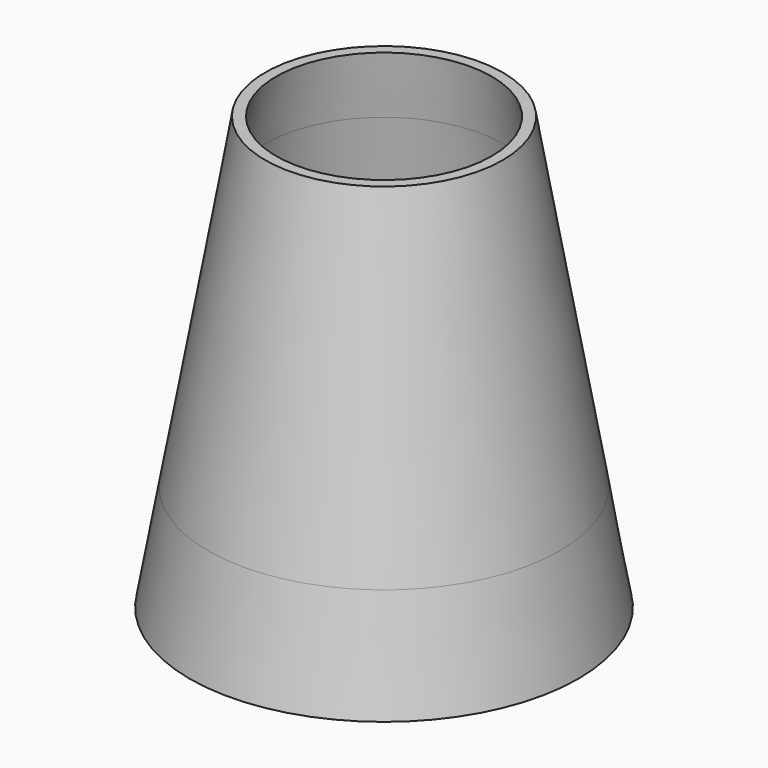
from build123d import *


with BuildPart() as f1:
    # F0 (on Front) → F1 (revolve)
    with BuildSketch(Plane.XZ):
        Polygon((15.2590650846, 9.8613593727), (16.9848029748, 0), (18, 0), (16.2742621098, 9.8613593727), align=None)
        Polygon((11, 40), (11, 34.1988741416), (15.2590650846, 9.8613593727), (16.2742621098, 9.8613593727), align=None)
        Polygon((9.9848029748, 40), (11, 34.1988741416), (11, 40), align=None)
    revolve(axis=Axis((0, 0, 20), (0, 0, 1)))


solid = f1.part
